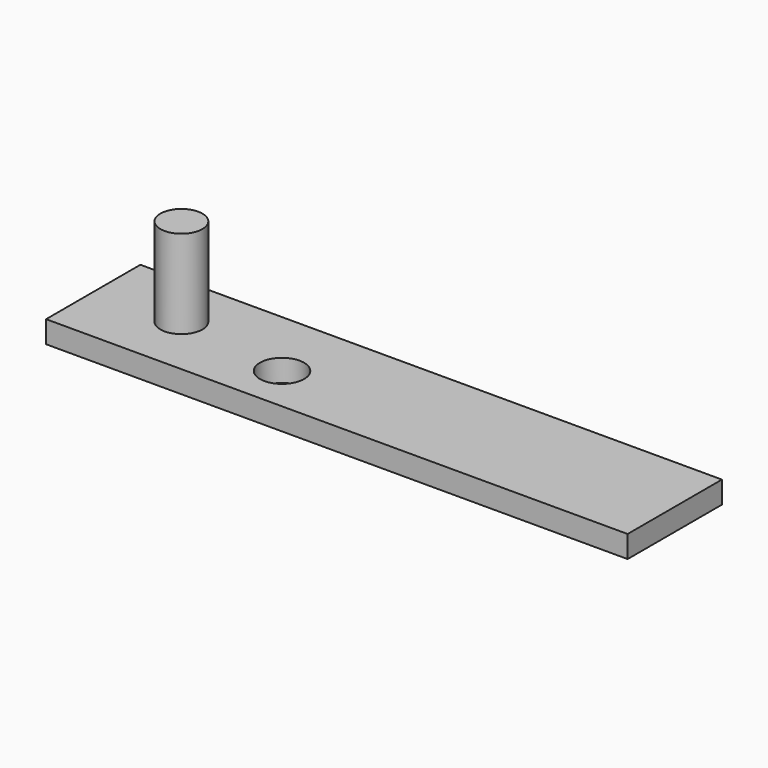
from build123d import *

# Parameters (mm, degrees)
F0_W     = 33.4264
F0_H     = 6.774552
F1_DEPTH = 1.27
F3_D     = 2.54
F4_R     = 1.116582
F5_DEPTH = 5.7658
F7_R     = 1.207406
F8_DEPTH = 5.08


with BuildPart() as f1:
    # F0 (on Top) → F1 (new body)
    with BuildSketch(Plane.XY):
        with Locations((-32.106044, -54.848913)):
            Rectangle(F0_W, F0_H)
    extrude(amount=F1_DEPTH)

    # F3 (through all)
    with Locations(Plane.XY.offset(1.27)):
        with Locations((-37.410062, -55.545177)):
            Hole(F3_D / 2)

    # F7 (on face) → F8 (join)
    with BuildSketch(Plane.XY.offset(1.27)):
        with Locations((-43.920558, -54.636113)):
            Circle(F7_R)
    extrude(amount=F8_DEPTH)


with BuildPart() as f5:
    # F4 (on face) → F5 (new body)
    with BuildSketch(Plane.XY.offset(1.27)):
        with Locations((-37.410062, -55.545177)):
            Circle(F4_R)
    extrude(amount=F5_DEPTH)


solid = f1.part
